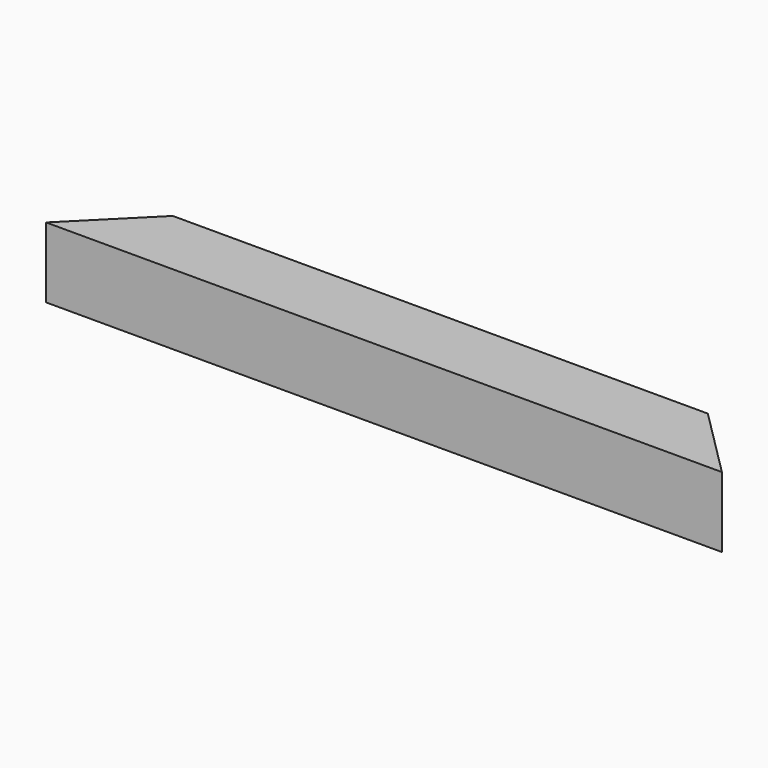
from build123d import *

# Parameters (mm, degrees)
SKETCH_W       = 31.75
SKETCH_H       = 31.75
SKETCH_W_2     = 26.2128
SKETCH_H_2     = 26.2128
PAD_DEPTH      = 152.4
PAD_DEPTH_BACK = 152.4
POCKET_DEPTH   = 31.75


with BuildPart() as part:
    # Sketch → Pad (new body, two sides)
    with BuildSketch(Plane.YZ) as pad_sk:
        Rectangle(SKETCH_W, SKETCH_H)
        Rectangle(SKETCH_W_2, SKETCH_H_2, mode=Mode.SUBTRACT)
    extrude(amount=PAD_DEPTH)
    extrude(pad_sk.sketch, amount=-PAD_DEPTH_BACK)

    # Sketch001 → Pocket (cut)
    with BuildSketch(Plane(origin=(0, 0, 15.875), x_dir=(0, -1, 0), z_dir=(0, 0, 1))):
        Polygon((15.875, 152.4), (-15.875, 152.4), (-15.875, 120.65), align=None)
    pocket = extrude(amount=-POCKET_DEPTH, mode=Mode.SUBTRACT)

    # Mirrored: Pocket across Sketch001 H_Axis
    add(pocket.mirror(Plane(origin=(0, 0, 15.875), x_dir=(0, 0, 1), z_dir=(1, 0, 0))), mode=Mode.SUBTRACT)


solid = part.part
